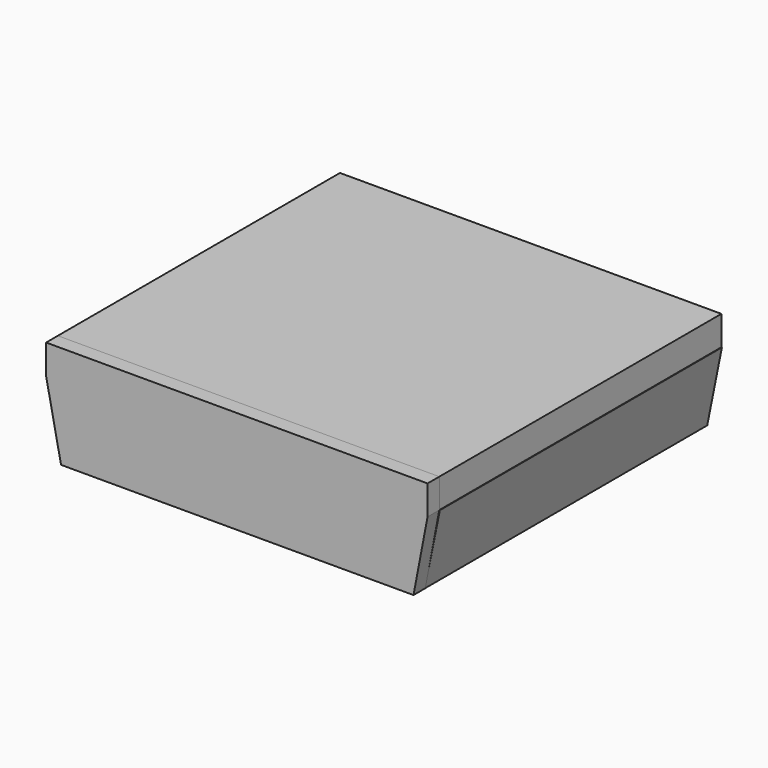
from build123d import *

# Parameters (mm, degrees)
F0_W      = 110
F0_H      = 120
F1_DEPTH  = 25
F2_W      = 110
F2_H      = 25
F3_DEPTH  = 120
F5_DEPTH  = 120
F6_DEPTH  = 120
F7_W      = 5
F7_H      = 120
F7_W_2    = 124.8197975755
F8_DEPTH  = 5
F9_W      = 10
F9_H      = 50
F10_DEPTH = 25
F11_W     = 10
F11_H     = 50
F12_DEPTH = 5
F14_DEPTH = 5


with BuildPart() as f1:
    # F0 (on Top) → F1 (new body)
    with BuildSketch(Plane.XY):
        with Locations((7.5504112244, -18.337418735)):
            Rectangle(F0_W, F0_H)
    extrude(amount=F1_DEPTH)

    # F2 (on face) → F3 (join)
    with BuildSketch(Plane.XZ.offset(78.337418735)):
        Polygon((-47.4495887756, 0), (-47.4495887756, 25), (-52.4495887756, 25), align=None)
        with Locations((7.5504112244, 12.5)):
            Rectangle(F2_W, F2_H)
        Polygon((67.5504112244, 25), (62.5504112244, 25), (62.5504112244, 0), align=None)
    extrude(amount=-F3_DEPTH)

    # F6 (cut): a face of the model
    f6_faces = [f1.faces().sort_by_distance(p)[0] for p in [
        (7.5504112244, -78.337418735, 12.6811594203),
    ]]
    extrude(f6_faces, amount=-F6_DEPTH, mode=Mode.SUBTRACT)


with BuildPart() as f5:
    # F4 (on face) → F5 (new body)
    with BuildSketch(Plane.XZ.offset(78.337418735)):
        Polygon((67.5504112244, 25), (62.5504112244, 0), (67.5504112244, 0), (72.5504112244, 25), align=None)
    extrude(amount=-F5_DEPTH)


with BuildPart() as f5b:
    # F4 (on face) → F5, piece 2 (new body)
    with BuildSketch(Plane.XZ.offset(78.337418735)):
        Polygon((-52.4495887756, 0), (-47.4495887756, 0), (-52.4495887756, 25), (-57.4495887756, 25), align=None)
    extrude(amount=-F5_DEPTH)


with BuildPart() as f8:
    # F7 (on face) → F8 (new body)
    with BuildSketch(Plane.XY.offset(25)):
        with Locations((-54.9495887756, -18.337418735)):
            Rectangle(F7_W, F7_H)
        with Locations((9.9603100121, -18.337418735)):
            Rectangle(F7_W_2, F7_H)
    extrude(amount=F8_DEPTH)

    # F9 (on face) → F10 (cut)
    with BuildSketch(Plane.XY.offset(30)):
        with Locations((-37.4495887756, -53.337418735)):
            Rectangle(F9_W, F9_H)
    extrude(amount=-F10_DEPTH, mode=Mode.SUBTRACT)

    # F11 (on face) → F12 (join)
    with BuildSketch(Plane.XY.offset(30)):
        with Locations((-37.4495887756, -53.337418735)):
            Rectangle(F11_W, F11_H)
        Polygon((-57.4495887756, 41.662581265), (-57.4495887756, -78.337418735), (-42.4495887756, -78.337418735), (-42.4495887756, -28.337418735), (-32.4495887756, -28.337418735), (-32.4495887756, -78.337418735), (72.3702087998, -78.337418735), (72.3702087998, 41.662581265), align=None)
    extrude(amount=F12_DEPTH)


with BuildPart() as f14:
    # F13 (on face) → F14 (new body)
    with BuildSketch(Plane.XZ.offset(78.337418735)):
        Polygon((72.3702087998, 35), (-57.4495887756, 35), (-57.4495887756, 25), (-42.4495887756, 25), (-42.4495887756, 30), (-32.4495887756, 30), (-32.4495887756, 25), (72.3702087998, 25), align=None)
        Polygon((-42.4495887756, 25), (-57.4495887756, 25), (-52.3566640913, 0), (67.5945058465, 0), (72.3702087998, 25), (-32.4495887756, 25), (-32.4495887756, 30), (-42.4495887756, 30), align=None)
    extrude(amount=F14_DEPTH)


solid = Compound([f5.part, f5b.part, f8.part, f14.part])
